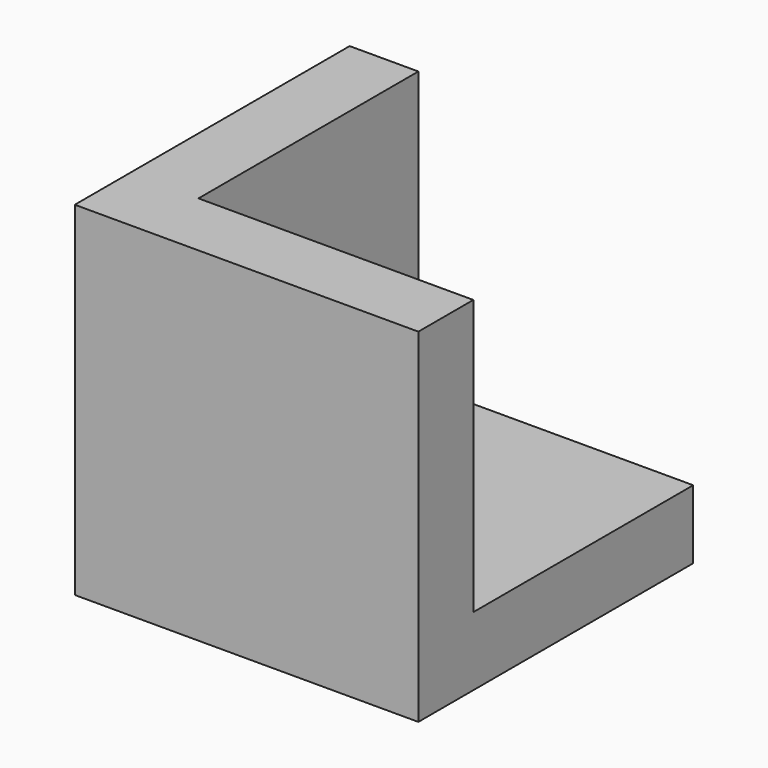
from build123d import *

# Parameters (mm, degrees)
BOX001_W     = 10
BOX001_H     = 10
BOX001_DEPTH = 10
BOX_W        = 10
BOX_H        = 10
BOX_DEPTH    = 10


with BuildPart() as cub001:
    # Box001 → Box001 (new body)
    with BuildSketch(Plane(origin=(2, 2, 2), x_dir=(1, 0, 0), z_dir=(0, 0, 1))):
        with Locations((5, 5)):
            Rectangle(BOX001_W, BOX001_H)
    extrude(amount=BOX001_DEPTH)


with BuildPart() as cut:
    # Box → Box (new body)
    with BuildSketch(Plane.XY):
        with Locations((5, 5)):
            Rectangle(BOX_W, BOX_H)
    extrude(amount=BOX_DEPTH)

    # Cut: cut Cub001
    add(cub001.part, mode=Mode.SUBTRACT)


solid = cut.part
